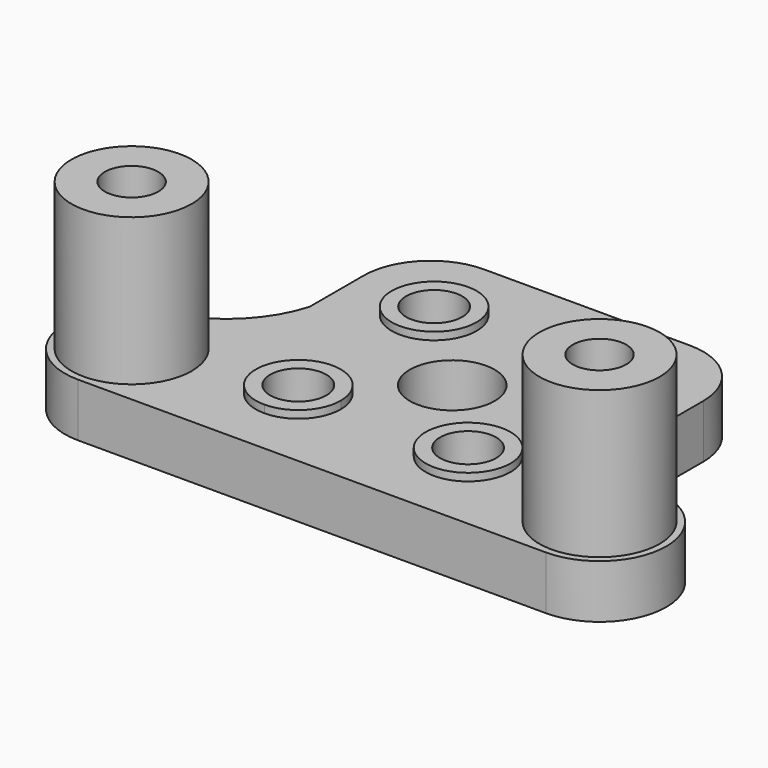
from build123d import *

# Parameters (mm, degrees)
F1_R     = 4.5
F1_R_2   = 3.175
F2_DEPTH = 4
F1_R_3   = 2.1
F3_DEPTH = 4.57
F4_DEPTH = 4.57
F5_DEPTH = 4.57
F6_DEPTH = 4.57
F1_R_4   = 2
F7_DEPTH = 15
F8_DEPTH = 15


with BuildPart() as f2:
    # F1 (on face) → F2 (new body)
    with BuildSketch(Plane.XY):
        with BuildLine():
            Line((7.709795, 12.7), (-7.690205, 12.7))
            ThreePointArc((-7.690205, 12.7), (-11.225739, 11.235534), (-12.690205, 7.7))
            Line((-12.690205, 7.7), (-12.690205, 2.634689))
            ThreePointArc((-12.690205, 2.634689), (-15.114116, -1.24147), (-19.196077, -3.3))
            ThreePointArc((-19.196077, -3.3), (-22.414634, -8.866025), (-17.490205, -13))
            Line((-17.490205, -13), (17.509795, -13))
            ThreePointArc((17.509795, -13), (22.434224, -8.866025), (19.215667, -3.3))
            ThreePointArc((19.215667, -3.3), (15.089649, -1.090359), (12.709795, 2.939881))
            Line((12.709795, 2.939881), (12.709795, 7.7))
            ThreePointArc((12.709795, 7.7), (11.245329, 11.235534), (7.709795, 12.7))
        make_face()
        with Locations((-17.490205, -8)):
            Circle(F1_R, mode=Mode.SUBTRACT)
        with BuildLine():
            ThreePointArc((-6.340205, -9.525), (-8.585269, -4.104936), (-3.165205, -6.35))
            ThreePointArc((-3.165205, -6.35), (-4.095141, -8.595064), (-6.340205, -9.525))
        make_face(mode=Mode.SUBTRACT)
        with Locations((17.509795, -8)):
            Circle(F1_R, mode=Mode.SUBTRACT)
        with Locations((6.359795, -6.35)):
            Circle(F1_R_2, mode=Mode.SUBTRACT)
        with Locations((-6.340205, 6.35)):
            Circle(F1_R_2, mode=Mode.SUBTRACT)
        with Locations((0.022334, 0.088805)):
            Circle(F1_R_2, mode=Mode.SUBTRACT)
        with Locations((6.359795, 6.35)):
            Circle(F1_R_2, mode=Mode.SUBTRACT)
    extrude(amount=F2_DEPTH)

    # F1 (on face) → F3 (join)
    with BuildSketch(Plane.XY):
        with Locations((-6.340205, 6.35)):
            Circle(F1_R_2)
        with Locations((-6.340205, 6.35)):
            Circle(F1_R_3, mode=Mode.SUBTRACT)
    extrude(amount=F3_DEPTH)

    # F1 (on face) → F4 (join)
    with BuildSketch(Plane.XY):
        with Locations((6.359795, 6.35)):
            Circle(F1_R_2)
        with Locations((6.359795, 6.35)):
            Circle(F1_R_3, mode=Mode.SUBTRACT)
    extrude(amount=F4_DEPTH)

    # F1 (on face) → F5 (join)
    with BuildSketch(Plane.XY):
        with Locations((6.359795, -6.35)):
            Circle(F1_R_2)
        with Locations((6.359795, -6.35)):
            Circle(F1_R_3, mode=Mode.SUBTRACT)
    extrude(amount=F5_DEPTH)

    # F1 (on face) → F6 (join)
    with BuildSketch(Plane.XY):
        with BuildLine():
            ThreePointArc((-6.340205, -9.525), (-4.095141, -8.595064), (-3.165205, -6.35))
            ThreePointArc((-3.165205, -6.35), (-8.585269, -4.104936), (-6.340205, -9.525))
        make_face()
        with Locations((-6.340205, -6.35)):
            Circle(F1_R_3, mode=Mode.SUBTRACT)
    extrude(amount=F6_DEPTH)

    # F1 (on face) → F7 (join)
    with BuildSketch(Plane.XY):
        with Locations((-17.490205, -8)):
            Circle(F1_R)
        with Locations((-17.490205, -8)):
            Circle(F1_R_4, mode=Mode.SUBTRACT)
    extrude(amount=F7_DEPTH)

    # F1 (on face) → F8 (join)
    with BuildSketch(Plane.XY):
        with Locations((17.509795, -8)):
            Circle(F1_R)
        with Locations((17.509795, -8)):
            Circle(F1_R_4, mode=Mode.SUBTRACT)
    extrude(amount=F8_DEPTH)


solid = f2.part
